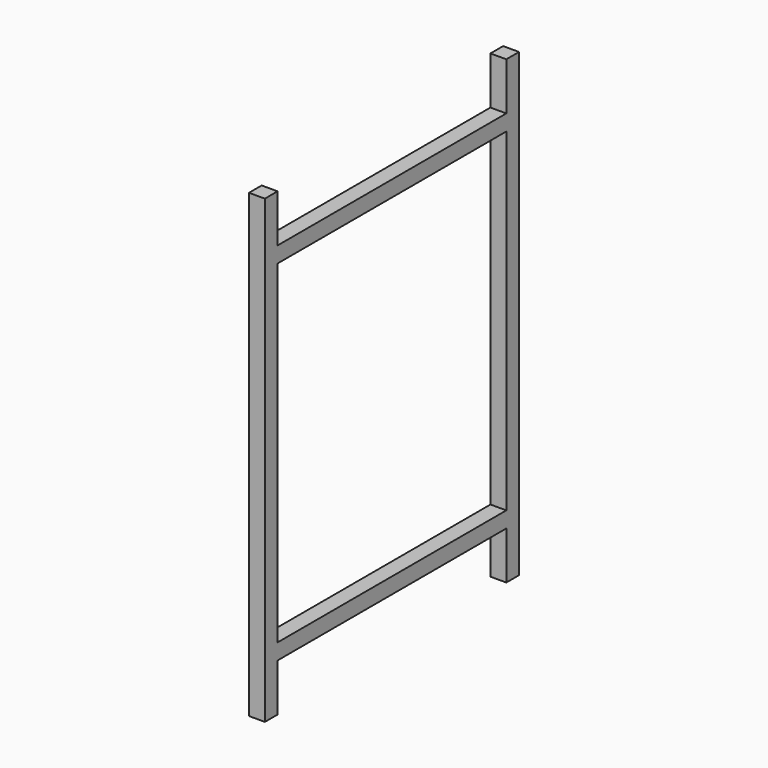
from build123d import *

# Parameters (mm, degrees)
F0_W     = 457.2
F0_H     = 533.4
F1_DEPTH = 25.4


with BuildPart() as f1:
    # F0 (on Right) → F1 (new body)
    with BuildSketch(Plane.YZ):
        Polygon((0, 736.6), (0, 0), (25.4, 0), (25.4, 76.2), (482.6, 76.2), (482.6, 0), (508, 0), (508, 736.6), (482.6, 736.6), (482.6, 660.4), (25.4, 660.4), (25.4, 736.6), align=None)
        with Locations((254, 368.3)):
            Rectangle(F0_W, F0_H, mode=Mode.SUBTRACT)
    extrude(amount=F1_DEPTH)


solid = f1.part
